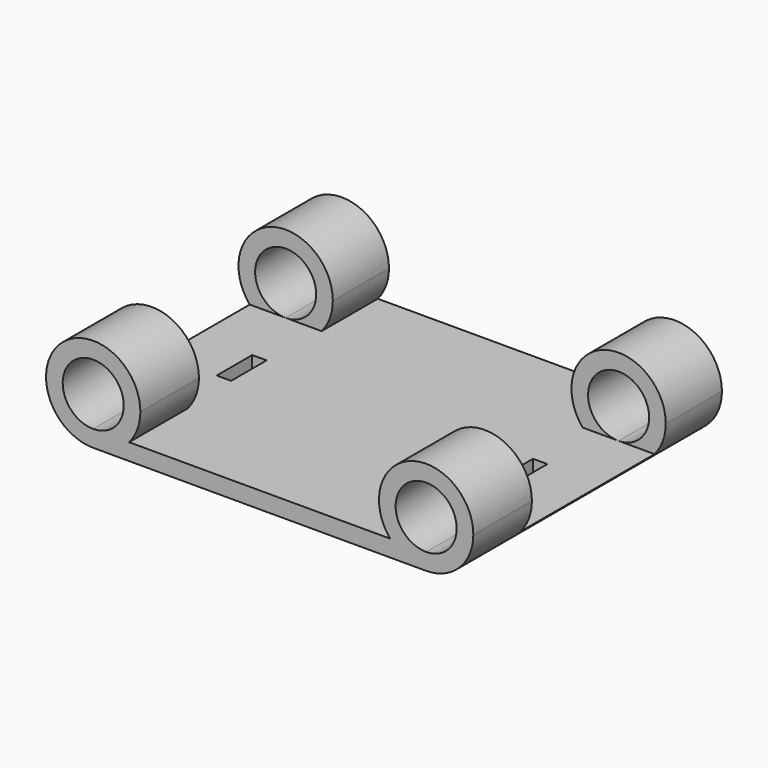
from build123d import *

# Parameters (mm, degrees)
F0_W     = 30
F0_H     = 28
F1_DEPTH = 1.5
F3_DEPTH = 28
F4_W     = 1.3
F4_H     = 4
F5_DEPTH = 25
F6_W     = 41.33358
F6_H     = 15.079705
F7_DEPTH = 25


with BuildPart() as f1:
    # F0 (on Top) → F1 (new body)
    with BuildSketch(Plane.XY):
        Rectangle(F0_W, F0_H)
    extrude(amount=F1_DEPTH)

    # F2 (on face) → F3 (join)
    with BuildSketch(Plane.XZ.offset(14)):
        with BuildLine():
            ThreePointArc((-11.75963, 1.5), (-11.010384, 2.78526), (-10.75, 4.25))
            ThreePointArc((-10.75, 4.25), (-18.005204, 7.255204), (-15, 0))
            Line((-15, 0), (-15, 1.5))
            Line((-15, 1.5), (-11.75963, 1.5))
        make_face()
        with BuildLine():
            ThreePointArc((-12.25, 4.25), (-13.055456, 2.305456), (-15, 1.5))
            ThreePointArc((-15, 1.5), (-16.944544, 6.194544), (-12.25, 4.25))
        make_face(mode=Mode.SUBTRACT)
        with BuildLine():
            Line((15, 1.5), (15, 0))
            ThreePointArc((15, 0), (18.005204, 1.244796), (19.25, 4.25))
            ThreePointArc((19.25, 4.25), (13.53526, 8.239616), (11.75963, 1.5))
            Line((11.75963, 1.5), (15, 1.5))
        make_face()
        with BuildLine():
            ThreePointArc((17.75, 4.25), (16.944544, 2.305456), (15, 1.5))
            ThreePointArc((15, 1.5), (13.055456, 6.194544), (17.75, 4.25))
        make_face(mode=Mode.SUBTRACT)
        with BuildLine():
            Line((15, 1.5), (15, 0))
            ThreePointArc((15, 0), (18.005204, 1.244796), (19.25, 4.25))
            ThreePointArc((19.25, 4.25), (13.53526, 8.239616), (11.75963, 1.5))
            Line((11.75963, 1.5), (15, 1.5))
        make_face()
        with BuildLine():
            ThreePointArc((17.75, 4.25), (16.944544, 2.305456), (15, 1.5))
            ThreePointArc((15, 1.5), (13.055456, 6.194544), (17.75, 4.25))
        make_face(mode=Mode.SUBTRACT)
        with BuildLine():
            Line((-15, 1.5), (-15, 0))
            ThreePointArc((-15, 0), (-13.214643, 0.393188), (-11.75963, 1.5))
            Line((-11.75963, 1.5), (-15, 1.5))
        make_face()
    extrude(amount=-F3_DEPTH)

    # F4 (on face) → F5 (cut)
    with BuildSketch(Plane.XY.offset(1.5)):
        with Locations((-12.65, -0.217311)):
            Rectangle(F4_W, F4_H)
        with Locations((12.65, -0.217311)):
            Rectangle(F4_W, F4_H)
    extrude(amount=-F5_DEPTH, mode=Mode.SUBTRACT)

    # F6 (on face) → F7 (cut)
    with BuildSketch(Plane.XY.offset(1.5)):
        with Locations((0.027121, 0.135609)):
            Rectangle(F6_W, F6_H)
    extrude(amount=F7_DEPTH, mode=Mode.SUBTRACT)


solid = f1.part
